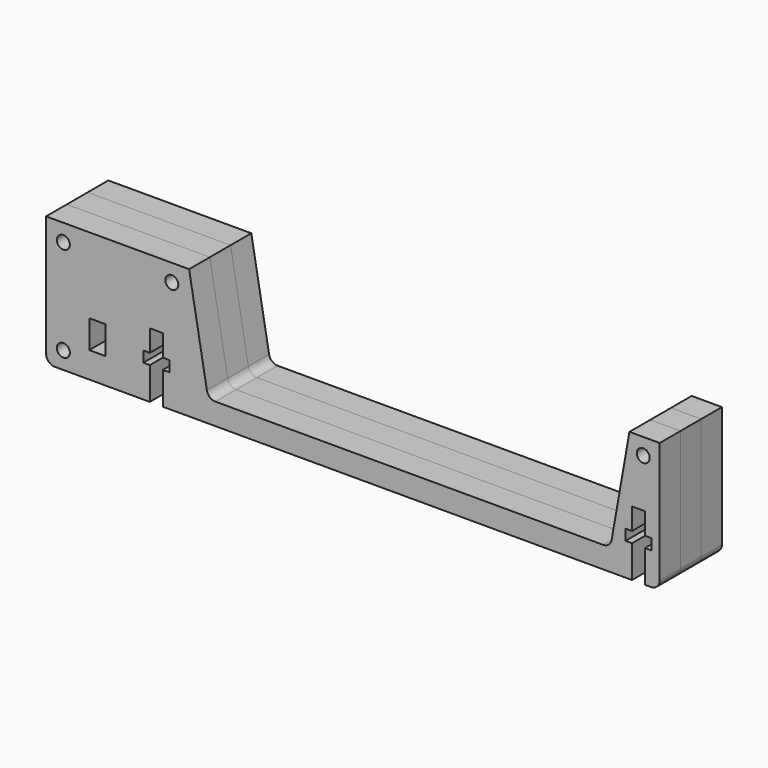
from build123d import *

# Parameters (mm, degrees)
F0_R     = 1.5
F1_DEPTH = 3
F2_R     = 1.5
F2_W     = 10
F2_H     = 5
F2_W_2   = 3.8
F2_H_2   = 1.5
F3_DEPTH = 6


with BuildPart() as f1:
    # F0 (on Front) → F1 (new body, symmetric)
    with BuildSketch(Plane.XZ):
        with BuildLine():
            Line((0, 7.5), (0, 2))
            ThreePointArc((0, 2), (0.5857864376, 0.5857864376), (2, 0))
            Line((2, 0), (140, 0))
            ThreePointArc((140, 0), (141.4142135624, 0.5857864376), (142, 2))
            Line((142, 2), (142, 30))
            Line((142, 30), (135, 30))
            Line((135, 30), (130.883241726, 6.6527036447))
            ThreePointArc((130.883241726, 6.6527036447), (130.1992014393, 5.4679111138), (128.9136262199, 5))
            Line((128.9136262199, 5), (39.1822865212, 5))
            ThreePointArc((39.1822865212, 5), (37.8967113018, 5.4679111138), (37.2126710152, 6.6527036447))
            Line((37.2126710152, 6.6527036447), (33.0959127411, 30))
            Line((33.0959127411, 30), (0, 30))
            Line((0, 30), (0, 12.5))
            Line((0, 12.5), (10, 12.5))
            Line((10, 12.5), (10, 14))
            Line((10, 14), (13.8, 14))
            Line((13.8, 14), (13.8, 12.5))
            Line((13.8, 12.5), (23.8, 12.5))
            Line((23.8, 12.5), (23.8, 7.5))
            Line((23.8, 7.5), (13.8, 7.5))
            Line((13.8, 7.5), (13.8, 6))
            Line((13.8, 6), (10, 6))
            Line((10, 6), (10, 7.5))
            Line((10, 7.5), (0, 7.5))
        make_face()
        with Locations((4, 4)):
            Circle(F0_R, mode=Mode.SUBTRACT)
        with Locations((4, 26)):
            Circle(F0_R, mode=Mode.SUBTRACT)
        with Locations((29.0959127411, 26)):
            Circle(F0_R, mode=Mode.SUBTRACT)
        with Locations((138.1937896777, 26.1937896777)):
            Circle(F0_R, mode=Mode.SUBTRACT)
    extrude(amount=F1_DEPTH, both=True)


with BuildPart() as f3:
    # F2 (on face) → F3 (new body)
    with BuildSketch(Plane.XZ.offset(3)):
        with BuildLine():
            Line((33.0959127411, 30), (0, 30))
            Line((0, 30), (0, 12.5))
            Line((0, 12.5), (10, 12.5))
            Line((10, 12.5), (10, 14))
            Line((10, 14), (13.8, 14))
            Line((13.8, 14), (13.8, 12.5))
            Line((13.8, 12.5), (23.8, 12.5))
            Line((23.8, 12.5), (23.8, 10))
            Line((23.8, 10), (24.0063355076, 10))
            Line((24.0063355076, 10), (24.0063355076, 15))
            Line((24.0063355076, 15), (27.0063355076, 15))
            Line((27.0063355076, 15), (27.0063355076, 10))
            Line((27.0063355076, 10), (28.5063355076, 10))
            Line((28.5063355076, 10), (28.5063355076, 7.5))
            Line((28.5063355076, 7.5), (27.0063355076, 7.5))
            Line((27.0063355076, 7.5), (27.0063355076, 0))
            Line((27.0063355076, 0), (135.6005855076, 0))
            Line((135.6005855076, 0), (135.6005855076, 7.5))
            Line((135.6005855076, 7.5), (134.1005855076, 7.5))
            Line((134.1005855076, 7.5), (134.1005855076, 10))
            Line((134.1005855076, 10), (135.6005855076, 10))
            Line((135.6005855076, 10), (135.6005855076, 15))
            Line((135.6005855076, 15), (138.6005855076, 15))
            Line((138.6005855076, 15), (138.6005855076, 10))
            Line((138.6005855076, 10), (140.1005855076, 10))
            Line((140.1005855076, 10), (140.1005855076, 7.5))
            Line((140.1005855076, 7.5), (138.6005855076, 7.5))
            Line((138.6005855076, 7.5), (138.6005855076, 0))
            Line((138.6005855076, 0), (140, 0))
            ThreePointArc((140, 0), (141.4142135624, 0.5857864376), (142, 2))
            Line((142, 2), (142, 30))
            Line((142, 30), (135, 30))
            Line((135, 30), (130.883241726, 6.6527036447))
            ThreePointArc((130.883241726, 6.6527036447), (130.1992014393, 5.4679111138), (128.9136262199, 5))
            Line((128.9136262199, 5), (39.1822865212, 5))
            ThreePointArc((39.1822865212, 5), (37.8967113018, 5.4679111138), (37.2126710152, 6.6527036447))
            Line((37.2126710152, 6.6527036447), (33.0959127411, 30))
        make_face()
        with Locations((4, 26)):
            Circle(F2_R, mode=Mode.SUBTRACT)
        with Locations((29.0959127411, 26)):
            Circle(F2_R, mode=Mode.SUBTRACT)
        with Locations((138.1937896777, 26.1937896777)):
            Circle(F2_R, mode=Mode.SUBTRACT)
        with Locations((5, 10)):
            Rectangle(F2_W, F2_H)
        with Locations((11.9, 13.25)):
            Rectangle(F2_W_2, F2_H_2)
        Polygon((23.8, 12.5), (13.8, 12.5), (13.8, 7.5), (22.5063355076, 7.5), (22.5063355076, 10), (23.8, 10), align=None)
        with BuildLine():
            Line((10, 7.5), (0, 7.5))
            Line((0, 7.5), (0, 2))
            ThreePointArc((0, 2), (0.5857864376, 0.5857864376), (2, 0))
            Line((2, 0), (24.0063355076, 0))
            Line((24.0063355076, 0), (24.0063355076, 7.5))
            Line((24.0063355076, 7.5), (23.8, 7.5))
            Line((23.8, 7.5), (22.5063355076, 7.5))
            Line((22.5063355076, 7.5), (13.8, 7.5))
            Line((13.8, 7.5), (13.8, 6))
            Line((13.8, 6), (10, 6))
            Line((10, 6), (10, 7.5))
        make_face()
        with Locations((4, 4)):
            Circle(F2_R, mode=Mode.SUBTRACT)
    extrude(amount=F3_DEPTH)


with BuildPart() as f4_1:
    # F4: instance of F3
    add(f3.part.mirror(Plane.XZ))


solid = Compound([f1.part, f3.part, f4_1.part])
